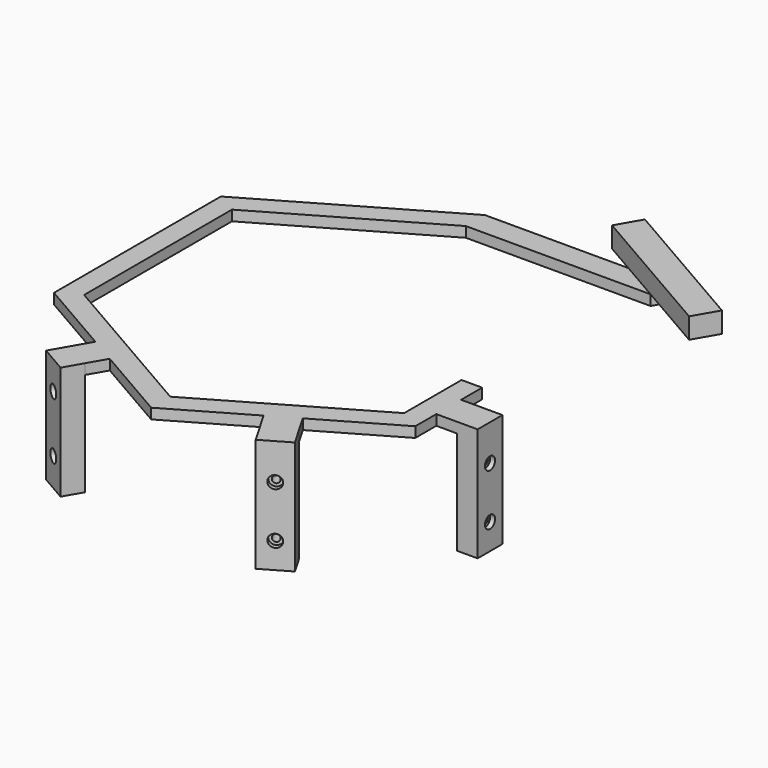
from build123d import *

# Parameters (mm, degrees)
PAD_DEPTH           = 5
PAD001_DEPTH        = 10
POCKET_DEPTH        = 6
SKETCH003_W         = 7
SKETCH003_H         = 4
POCKET001_DEPTH     = 30
SKETCH004_W         = 15
SKETCH004_H         = 5
PAD002_DEPTH        = 10
SKETCH005_W         = 15
SKETCH005_H         = 55
PAD003_DEPTH        = 10
HOLE_D              = 3.4
HOLE_DEPTH          = 25
HOLE_CBORE_D        = 6.1
HOLE_CBORE_DEPTH    = 2.4
HOLE_TIPS_R         = 1.7
SKETCH007_W         = 15
SKETCH007_H         = 5
PAD004_DEPTH        = 10
SKETCH008_W         = 15
SKETCH008_H         = 55
PAD005_DEPTH        = 10
HOLE001_D           = 3.4
HOLE001_DEPTH       = 25
HOLE001_CBORE_D     = 6.1
HOLE001_CBORE_DEPTH = 2.4
HOLE001_TIPS_R      = 1.7
SKETCH010_W         = 15
SKETCH010_H         = 5
PAD006_DEPTH        = 10
SKETCH011_W         = 15
SKETCH011_H         = 55
PAD007_DEPTH        = 10
HOLE002_D           = 3.4
HOLE002_DEPTH       = 25
HOLE002_CBORE_D     = 6.1
HOLE002_CBORE_DEPTH = 2.4
HOLE002_TIPS_R      = 1.7


with BuildPart() as part:
    # Sketch → Pad (new body)
    with BuildSketch(Plane.XY):
        Polygon((77.465972, -44.725), (77.465972, -9.995), (87.465972, -9.995), (87.465972, -50.494492), (0, -100.995), (-87.465972, -50.494492), (-87.465972, 50.494492), (0, 100.995), (96.115509, 100.995), (89.45, 89.45), (0, 89.45), (-77.465972, 44.725), (-77.465972, -44.725), (0, -89.45), align=None)
    extrude(amount=PAD_DEPTH)

    # Sketch001 (on Face16 of Pad) → Pad001 (join)
    with BuildSketch(Plane.XY.offset(5)):
        Polygon((124.090672, 69.449404), (130.75638, 80.99429), (61.475035, 120.995481), (54.809328, 109.450596), align=None)
    extrude(amount=PAD001_DEPTH)

    # Sketch002 (on Face7 of Pad001) → Pocket (cut)
    with BuildSketch(Plane(origin=(0, 0, 5), x_dir=(1, 0, 0), z_dir=(0, 0, -1))):
        Polygon((91.032754, -92.191411), (117.013517, -77.191411), (120.513517, -83.253589), (94.532754, -98.253589), align=None)
    extrude(amount=-POCKET_DEPTH, mode=Mode.SUBTRACT)

    # Sketch003 (on Face8 of Pocket) → Pocket001 (cut)
    with BuildSketch(Plane(origin=(28.354514, -16.370486, 0), x_dir=(0.5, 0.866025, 0), z_dir=(0.866025, -0.5, 0))):
        with Locations((128.856481, 9)):
            Rectangle(SKETCH003_W, SKETCH003_H)
    extrude(amount=-POCKET001_DEPTH, mode=Mode.SUBTRACT)

    # Sketch004 (on Face14 of Pocket001) → Pad002 (join)
    with BuildSketch(Plane.YZ.offset(87.465972)):
        with Locations((-30.244746, 2.5)):
            Rectangle(SKETCH004_W, SKETCH004_H)
    extrude(amount=PAD002_DEPTH)

    # Sketch005 (on Face32 of Pad002) → Pad003 (join)
    with BuildSketch(Plane.YZ.offset(97.465972)):
        with Locations((-30.244746, -22.5)):
            Rectangle(SKETCH005_W, SKETCH005_H)
    extrude(amount=PAD003_DEPTH)

    # Hole
    with Locations(Plane.YZ.offset(107.465972)):
        with Locations((-30.244746, -12.5), (-30.244746, -37.5)):
            CounterBoreHole(HOLE_D / 2, HOLE_CBORE_D / 2, HOLE_CBORE_DEPTH, depth=HOLE_DEPTH)

    # Hole tips → Hole tip 1 section 0
    with BuildSketch(Plane.YZ.offset(82.465972), mode=Mode.PRIVATE) as hole_tip_1_s0:
        with Locations((-30.244746, -12.5)):
            Circle(HOLE_TIPS_R)
    loft([hole_tip_1_s0.sketch, Vertex(81.444509, -30.244746, -12.5)], mode=Mode.SUBTRACT)

    # Hole tips → Hole tip 2 section 0
    with BuildSketch(Plane.YZ.offset(82.465972), mode=Mode.PRIVATE) as hole_tip_2_s0:
        with Locations((-30.244746, -37.5)):
            Circle(HOLE_TIPS_R)
    loft([hole_tip_2_s0.sketch, Vertex(81.444509, -30.244746, -37.5)], mode=Mode.SUBTRACT)

    # Sketch007 (on Face17 of Hole) → Pad004 (join)
    with BuildSketch(Plane(origin=(43.732986, -75.744746, 0), x_dir=(0.866017, 0.500015, 0), z_dir=(0.500015, -0.866017, 0))):
        with Locations((0, 2.5)):
            Rectangle(SKETCH007_W, SKETCH007_H)
    extrude(amount=PAD004_DEPTH)

    # Sketch008 (on Face38 of Pad004) → Pad005 (join)
    with BuildSketch(Plane(origin=(48.733135, -84.404914, 0), x_dir=(0.866017, 0.500015, 0), z_dir=(0.500015, -0.866017, 0))):
        with Locations((0, -22.5)):
            Rectangle(SKETCH008_W, SKETCH008_H)
    extrude(amount=PAD005_DEPTH)

    # Hole001
    with Locations(Plane(origin=(53.733284, -93.065082, 0), x_dir=(0.866017, 0.500015, 0), z_dir=(0.500015, -0.866017, 0))):
        with Locations((0, -12.5), (0, -37.5)):
            CounterBoreHole(HOLE001_D / 2, HOLE001_CBORE_D / 2, HOLE001_CBORE_DEPTH, depth=HOLE001_DEPTH)

    # Hole001 tips → Hole001 tip 1 section 0
    with BuildSketch(Plane(origin=(41.232912, -71.414662, 0), x_dir=(0.866017, 0.500015, 0), z_dir=(0.500015, -0.866017, 0)), mode=Mode.PRIVATE) as hole001_tip_1_s0:
        with Locations((0, -12.5)):
            Circle(HOLE001_TIPS_R)
    loft([hole001_tip_1_s0.sketch, Vertex(40.722165, -70.530058, -12.5)], mode=Mode.SUBTRACT)

    # Hole001 tips → Hole001 tip 2 section 0
    with BuildSketch(Plane(origin=(41.232912, -71.414662, 0), x_dir=(0.866017, 0.500015, 0), z_dir=(0.500015, -0.866017, 0)), mode=Mode.PRIVATE) as hole001_tip_2_s0:
        with Locations((0, -37.5)):
            Circle(HOLE001_TIPS_R)
    loft([hole001_tip_2_s0.sketch, Vertex(40.722165, -70.530058, -37.5)], mode=Mode.SUBTRACT)

    # Sketch010 (on Face20 of Hole001) → Pad006 (join)
    with BuildSketch(Plane(origin=(-43.732986, -75.744746, 0), x_dir=(0.866017, -0.500015, 0), z_dir=(-0.500015, -0.866017, 0))):
        with Locations((0, 2.5)):
            Rectangle(SKETCH010_W, SKETCH010_H)
    extrude(amount=PAD006_DEPTH)

    # Sketch011 (on Face44 of Pad006) → Pad007 (join)
    with BuildSketch(Plane(origin=(-48.733135, -84.404914, 0), x_dir=(0.866017, -0.500015, 0), z_dir=(-0.500015, -0.866017, 0))):
        with Locations((0, -22.5)):
            Rectangle(SKETCH011_W, SKETCH011_H)
    extrude(amount=PAD007_DEPTH)

    # Hole002
    with Locations(Plane(origin=(-53.733284, -93.065082, 0), x_dir=(0.866017, -0.500015, 0), z_dir=(-0.500015, -0.866017, 0))):
        with Locations((0, -36.25), (0, -8.75)):
            CounterBoreHole(HOLE002_D / 2, HOLE002_CBORE_D / 2, HOLE002_CBORE_DEPTH, depth=HOLE002_DEPTH)

    # Hole002 tips → Hole002 tip 1 section 0
    with BuildSketch(Plane(origin=(-41.232912, -71.414662, 0), x_dir=(0.866017, -0.500015, 0), z_dir=(-0.500015, -0.866017, 0)), mode=Mode.PRIVATE) as hole002_tip_1_s0:
        with Locations((0, -36.25)):
            Circle(HOLE002_TIPS_R)
    loft([hole002_tip_1_s0.sketch, Vertex(-40.722165, -70.530058, -36.25)], mode=Mode.SUBTRACT)

    # Hole002 tips → Hole002 tip 2 section 0
    with BuildSketch(Plane(origin=(-41.232912, -71.414662, 0), x_dir=(0.866017, -0.500015, 0), z_dir=(-0.500015, -0.866017, 0)), mode=Mode.PRIVATE) as hole002_tip_2_s0:
        with Locations((0, -8.75)):
            Circle(HOLE002_TIPS_R)
    loft([hole002_tip_2_s0.sketch, Vertex(-40.722165, -70.530058, -8.75)], mode=Mode.SUBTRACT)


solid = part.part
